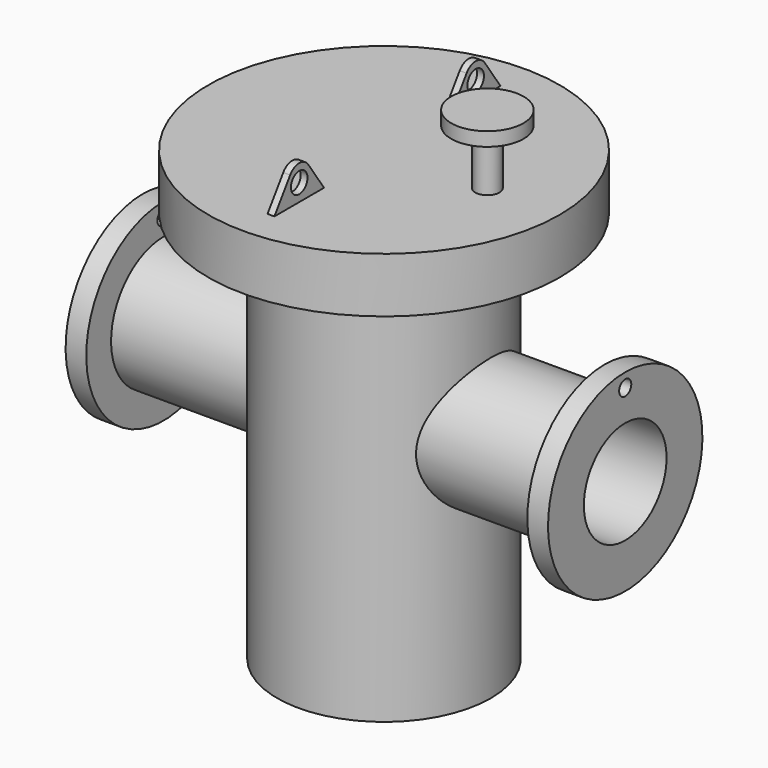
from build123d import *

# Parameters (mm, degrees)
F3_R      = 15
F4_DEPTH  = 5
F5_R      = 20
F9_R      = 11
F10_DEPTH = 30


with BuildPart() as f2:
    # F1 (on Front) → F2 (revolve)
    with BuildSketch(Plane.XZ):
        Polygon((150, 100), (150, 0), (167.5, 0), (167.5, 80), (202.5, 80), (202.5, 100), align=None)
    revolve(axis=Axis((150, 0, 50), (0, 0, 1)))



with BuildPart() as f4:
    # F3 (on Right) → F4 (new body, symmetric)
    with BuildSketch(Plane.YZ):
        Polygon((115, 0), (205, 0), (160, 65), align=None)
        with Locations((160, 25)):
            Circle(F3_R, mode=Mode.SUBTRACT)
    extrude(amount=F4_DEPTH, both=True)

    # F5
    f5_edges = [f4.edges().sort_by_distance(p)[0] for p in [
        (0, 160, 65),
    ]]
    fillet(f5_edges, radius=F5_R)


with BuildPart() as f6_1:
    # F6: instance of F4
    add(f4.part.mirror(Plane.XZ))


with BuildPart() as f8:
    # F7 (on Front) → F8 (revolve)
    with BuildSketch(Plane.XZ):
        Polygon((0, -235), (350, -235), (350, -170), (320, -170), (320, -215), (0, -215), align=None)
    revolve(axis=Axis((246.6098368168, 0, -310), (1, 0, 0)))

    # F9 (on face) → F10 (cut, through all)
    with BuildSketch(Plane.YZ.offset(350)):
        with Locations((0, -190)):
            Circle(F9_R)
    extrude(amount=-F10_DEPTH, mode=Mode.SUBTRACT)

    # F11: F8 across plane


with BuildPart() as f8_1:
    add(f8.part)
    add(f8.part.mirror(Plane.YZ))


with BuildPart() as f2_1:
    add(f2.part)

    add(f4.part)  # F12 merges F4

    add(f6_1.part)  # F12 merges F6_1

    add(f8_1.part)  # F12 merges F8
    # F0 (on Front) → F12 (revolve)
    with BuildSketch(Plane.XZ):
        Polygon((255, 0), (0, 0), (0, -650), (155, -650), (155, -80), (255, -80), align=None)
    revolve(axis=Axis((0, 0, 290.8246964216), (0, 0, 1)))


solid = f2_1.part
